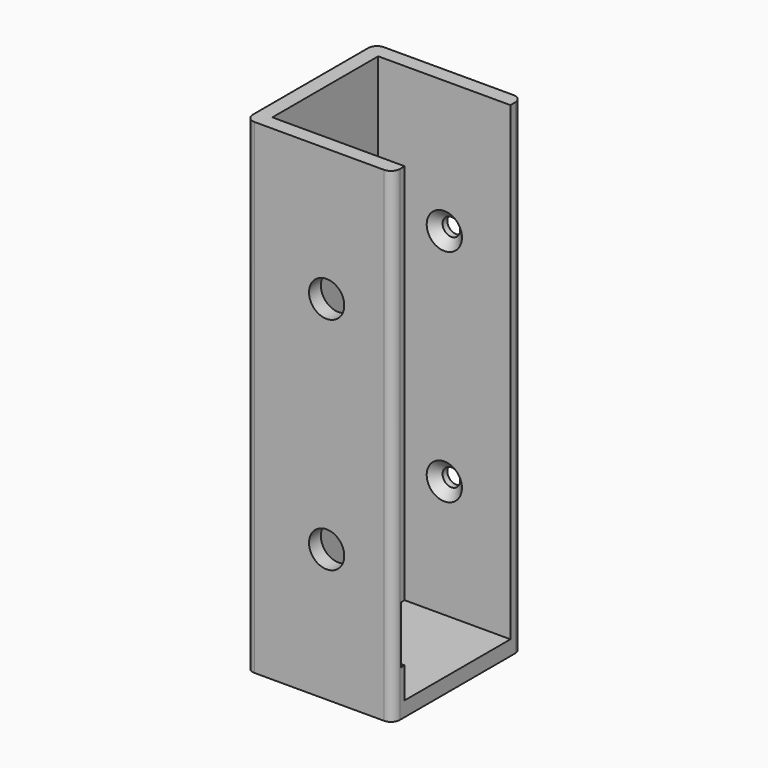
from build123d import *

# Parameters (mm, degrees)
F1_DEPTH       = 110
F0_W           = 30
F0_H           = 30
F2_DEPTH       = 3.36
F3_R           = 2
F5_D           = 8
F5_DEPTH       = 4
F7_D           = 4
F7_DEPTH       = 4
F7_CSINK_D     = 8
F7_CSINK_ANGLE = 90
F8_W           = 30
F8_H           = 13
F9_DEPTH       = 1


with BuildPart() as f1:
    # F0 (on Top) → F1 (new body)
    with BuildSketch(Plane.XY):
        Polygon((15, -18.36), (15, -15), (-15, -15), (-15, 15), (15, 15), (15, 18.36), (-18.36, 18.36), (-18.36, -18.36), align=None)
    extrude(amount=F1_DEPTH)

    # F0 (on Top) → F2 (join)
    with BuildSketch(Plane.XY):
        Rectangle(F0_W, F0_H)
    extrude(amount=F2_DEPTH)

    # F3
    f3_edges = [f1.edges().sort_by_distance(p)[0] for p in [
        (-18.36, -18.36, 55),
        (-18.36, 18.36, 55),
        (15, -18.36, 55),
        (15, 18.36, 55),
    ]]
    fillet(f3_edges, radius=F3_R)

    # F5
    with Locations(Plane.XZ.offset(18.36)):
        with Locations((0, 30), (0, 80)):
            Hole(F5_D / 2, depth=F5_DEPTH)

    # F7
    with Locations(Plane.XZ.offset(-15)):
        with Locations((0, 30), (0, 80)):
            CounterSinkHole(F7_D / 2, F7_CSINK_D / 2, depth=F7_DEPTH, counter_sink_angle=F7_CSINK_ANGLE)

    # F8 (on face) → F9 (cut)
    with BuildSketch(Plane(origin=(0, -15, 0), x_dir=(-1, 0, 0), z_dir=(0, 1, 0))):
        with Locations((0, 16.86)):
            Rectangle(F8_W, F8_H)
    extrude(amount=-F9_DEPTH, mode=Mode.SUBTRACT)


solid = f1.part
